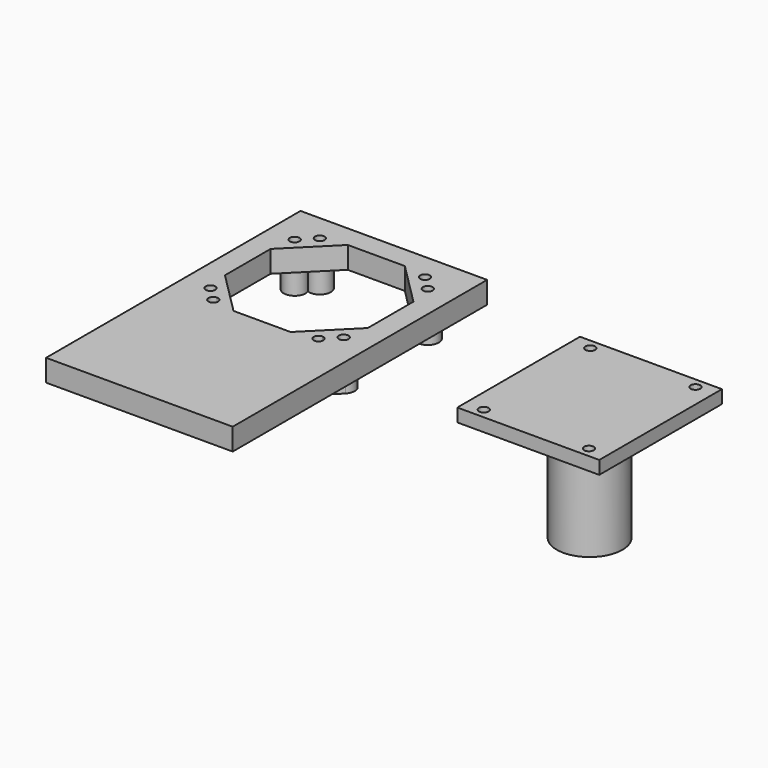
from build123d import *

# Parameters (mm, degrees)
F1_W     = 42.6
F1_H     = 72.6
F1_R     = 1.1
F2_DEPTH = 5
F3_R     = 1.1
F4_DEPTH = 5
F5_W     = 32.4
F5_H     = 35
F5_R     = 1.1
F6_DEPTH = 3
F7_R     = 7.5
F8_DEPTH = 25


with BuildPart() as f2:
    # F1 (on Top) → F2 (new body)
    with BuildSketch(Plane.XY):
        with Locations((0, -15)):
            Rectangle(F1_W, F1_H)
        with BuildLine():
            ThreePointArc((-10.9, -15.2), (-11.2221825407, -15.9778174593), (-12, -16.3))
            ThreePointArc((-12, -16.3), (-13.1, -15.2), (-12, -14.1))
            ThreePointArc((-12, -14.1), (-11.2221825407, -14.4221825407), (-10.9, -15.2))
        make_face(mode=Mode.SUBTRACT)
        with BuildLine():
            ThreePointArc((13.1, -15.2), (12.7778174593, -15.9778174593), (12, -16.3))
            ThreePointArc((12, -16.3), (10.9, -15.2), (12, -14.1))
            ThreePointArc((12, -14.1), (12.7778174593, -14.4221825407), (13.1, -15.2))
        make_face(mode=Mode.SUBTRACT)
        with BuildLine():
            ThreePointArc((-16.3, -12), (-15.2, -10.9), (-14.1, -12))
            ThreePointArc((-14.1, -12), (-15.2, -13.1), (-16.3, -12))
        make_face(mode=Mode.SUBTRACT)
        with Locations((-15.2, 12)):
            Circle(F1_R, mode=Mode.SUBTRACT)
        with Locations((-12, 15.2)):
            Circle(F1_R, mode=Mode.SUBTRACT)
        Polygon((-16.3, 6.5159379566), (-6.5159379566, 16.3), (0, 16.3), (6.5159379566, 16.3), (16.3, 6.5159379566), (16.3, 0), (16.3, -6.5159379566), (6.5159379566, -16.3), (0, -16.3), (-6.5159379566, -16.3), (-16.3, -6.5159379566), (-16.3, 0), align=None, mode=Mode.SUBTRACT)
        with BuildLine():
            ThreePointArc((16.3, -12), (15.2, -13.1), (14.1, -12))
            ThreePointArc((14.1, -12), (15.2, -10.9), (16.3, -12))
        make_face(mode=Mode.SUBTRACT)
        with Locations((15.2, 12)):
            Circle(F1_R, mode=Mode.SUBTRACT)
        with Locations((12, 15.2)):
            Circle(F1_R, mode=Mode.SUBTRACT)
    extrude(amount=F2_DEPTH)

    # F3 (on face) → F4 (join)
    with BuildSketch(Plane(origin=(0, 0, 0), x_dir=(1, 0, 0), z_dir=(0, 0, -1))):
        with BuildLine():
            ThreePointArc((16.967766953, -13.767766953), (15.7445850487, -9.5600354255), (12.8483351811, -12.8483351811))
            ThreePointArc((12.8483351811, -12.8483351811), (9.5600354255, -15.7445850487), (13.767766953, -16.967766953))
            Line((13.767766953, -16.967766953), (16.967766953, -13.767766953))
        make_face()
        with Locations((12, -15.2)):
            Circle(F3_R, mode=Mode.SUBTRACT)
        with Locations((15.2, -12)):
            Circle(F3_R, mode=Mode.SUBTRACT)
        with BuildLine():
            Line((-16.967766953, -13.767766953), (-13.767766953, -16.967766953))
            ThreePointArc((-13.767766953, -16.967766953), (-9.5600354255, -15.7445850487), (-12.8483351811, -12.8483351811))
            ThreePointArc((-12.8483351811, -12.8483351811), (-15.7445850487, -9.5600354255), (-16.967766953, -13.767766953))
        make_face()
        with Locations((-12, -15.2)):
            Circle(F3_R, mode=Mode.SUBTRACT)
        with Locations((-15.2, -12)):
            Circle(F3_R, mode=Mode.SUBTRACT)
        with BuildLine():
            ThreePointArc((12.8483351811, 12.8483351811), (15.7445850487, 9.5600354255), (16.967766953, 13.767766953))
            Line((16.967766953, 13.767766953), (13.767766953, 16.967766953))
            ThreePointArc((13.767766953, 16.967766953), (9.5600354255, 15.7445850487), (12.8483351811, 12.8483351811))
        make_face()
        with Locations((15.2, 12)):
            Circle(F3_R, mode=Mode.SUBTRACT)
        with Locations((12, 15.2)):
            Circle(F3_R, mode=Mode.SUBTRACT)
        with BuildLine():
            ThreePointArc((-16.967766953, 13.767766953), (-15.7445850487, 9.5600354255), (-12.8483351811, 12.8483351811))
            ThreePointArc((-12.8483351811, 12.8483351811), (-9.5600354255, 15.7445850487), (-13.767766953, 16.967766953))
            Line((-13.767766953, 16.967766953), (-16.967766953, 13.767766953))
        make_face()
        with Locations((-15.2, 12)):
            Circle(F3_R, mode=Mode.SUBTRACT)
        with Locations((-12, 15.2)):
            Circle(F3_R, mode=Mode.SUBTRACT)
    extrude(amount=F4_DEPTH)


with BuildPart() as f6:
    # F5 (on Top) → F6 (new body)
    with BuildSketch(Plane.XY):
        with Locations((61.7328245704, 0)):
            Rectangle(F5_W, F5_H)
        with Locations((49.7328245704, -15.2)):
            Circle(F5_R, mode=Mode.SUBTRACT)
        with Locations((73.7328245704, -15.2)):
            Circle(F5_R, mode=Mode.SUBTRACT)
        with Locations((49.7328245704, 15.2)):
            Circle(F5_R, mode=Mode.SUBTRACT)
        with Locations((73.7328245704, 15.2)):
            Circle(F5_R, mode=Mode.SUBTRACT)
    extrude(amount=F6_DEPTH)

    # F7 (on face) → F8 (join)
    with BuildSketch(Plane(origin=(0, 0, 0), x_dir=(1, 0, 0), z_dir=(0, 0, -1))):
        with Locations((61.7328245704, 0)):
            Circle(F7_R)
    extrude(amount=F8_DEPTH)


solid = Compound([f2.part, f6.part])
